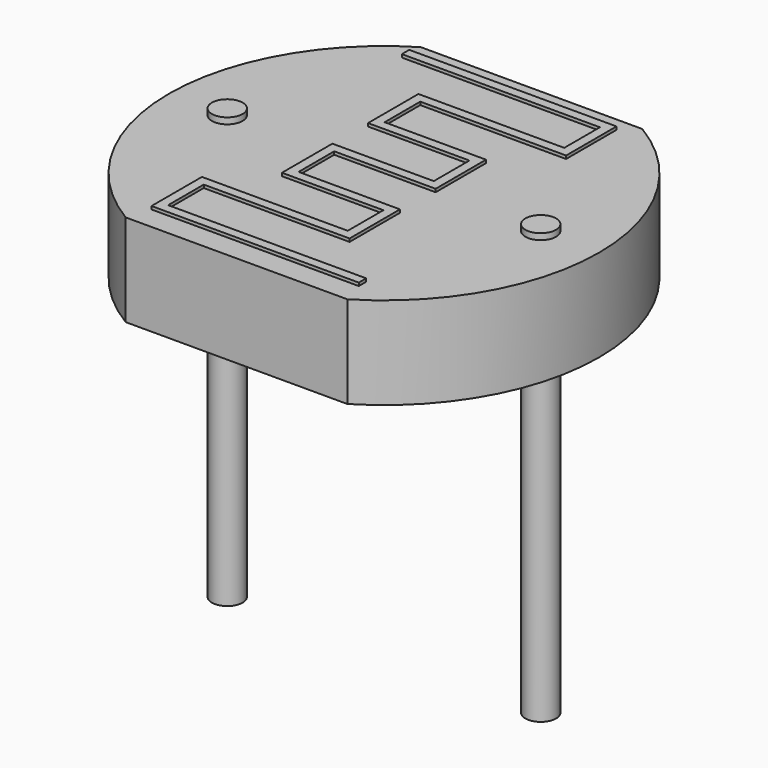
from build123d import *

# Parameters (mm, degrees)
PAD001_DEPTH   = 1.5
SKETCH_R       = 0.25
PAD_DEPTH      = 4
PAD_DEPTH_BACK = 3
PAD002_DEPTH   = 0.05


with BuildPart() as pad001:
    # Sketch001 → Pad001 (new body)
    with BuildSketch(Plane.XY.offset(3.9)):
        with BuildLine():
            ThreePointArc((0.747224, 3), (-0.95, 0), (0.747224, -3))
            Line((0.747224, -3), (4.352776, -3))
            ThreePointArc((4.352776, -3), (6.05, 0), (4.352776, 3))
            Line((0.747224, 3), (4.352776, 3))
        make_face()
    extrude(amount=-PAD001_DEPTH)


with BuildPart() as pad:
    # Sketch → Pad (new body, two sides)
    with BuildSketch(Plane.XY) as pad_sk:
        Circle(SKETCH_R)
        with Locations((5.1, 0)):
            Circle(SKETCH_R)
    extrude(amount=PAD_DEPTH)
    extrude(pad_sk.sketch, amount=-PAD_DEPTH_BACK)


with BuildPart() as obj1:
    # Sketch002 → Pad002 (new body)
    with BuildSketch(Plane.XY.offset(3.95)):
        Polygon((0.8, 2.55), (4.0225, 2.55), (4.0225, 1.825), (1.65, 1.825), (1.65, 1.675), (1.65, 0.8), (1.8, 0.8), (3.3, 0.8), (3.3, 0.075), (1.65, 0.075), (1.65, -0.075), (1.65, -0.95), (1.8, -0.95), (3.3, -0.95), (3.3, -1.675), (0.9275, -1.675), (0.9275, -1.825), (0.9275, -2.7), (1.0775, -2.7), (4.3, -2.7), (4.3, -2.55), (1.0775, -2.55), (1.0775, -1.825), (3.3, -1.825), (3.45, -1.825), (3.45, -0.95), (3.45, -0.8), (1.8, -0.8), (1.8, -0.075), (3.3, -0.075), (3.45, -0.075), (3.45, 0.8), (3.45, 0.95), (1.8, 0.95), (1.8, 1.675), (4.0225, 1.675), (4.1725, 1.675), (4.1725, 2.55), (4.1725, 2.7), (0.8, 2.7), align=None)
    extrude(amount=PAD002_DEPTH)

    add(pad001.part)
    add(pad.part)


solid = obj1.part
